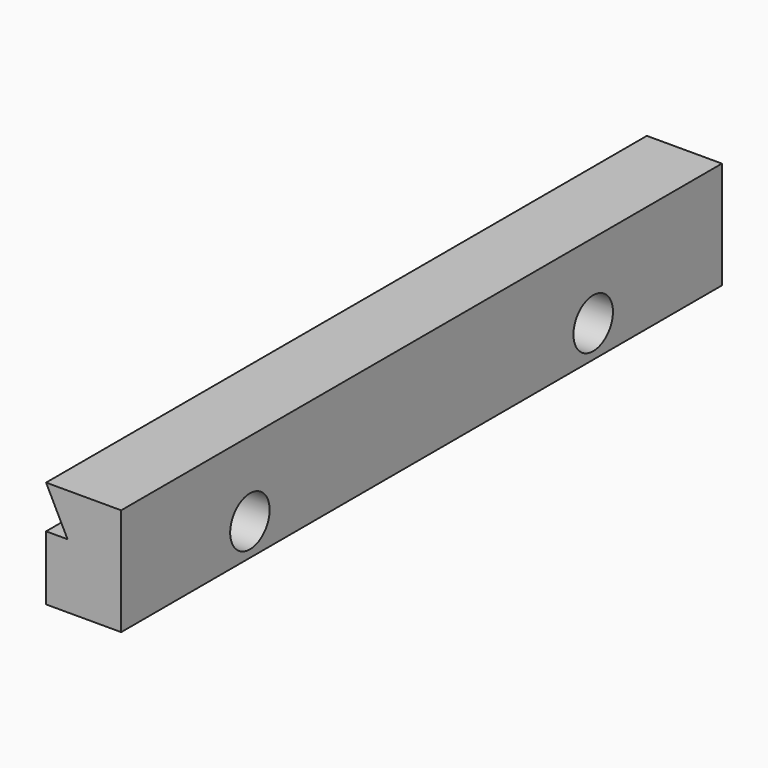
from build123d import *

# Parameters (mm, degrees)
F1_DEPTH = 10.033
F3_DEPTH = 76.2
F5_DEPTH = 76.2
F7_D     = 2.921
F7_DEPTH = 8.255
F9_DEPTH = 4.446


with BuildPart() as f1:
    # F0 (on Right) → F1 (new body, symmetric)
    with BuildSketch(Plane.YZ):
        Polygon((19.05, -6.35), (31.75, 6.35), (-19.05, 6.35), (-31.75, -6.35), align=None)
    extrude(amount=F1_DEPTH, both=True)

    # F2 (on Front) → F3 (cut, symmetric)
    with BuildSketch(Plane.XZ):
        Polygon((-6.858, -3.81), (-5.588, -6.35), (5.588, -6.35), (6.858, -3.81), align=None)
        Polygon((5.588, 6.35), (-5.588, 6.35), (-6.858, 3.81), (6.858, 3.81), align=None)
    extrude(amount=F3_DEPTH, both=True, mode=Mode.SUBTRACT)

    # F4 (on Front) → F5 (cut, symmetric)
    with BuildSketch(Plane.XZ):
        Polygon((16.257983, -9.573173), (10.033, 0), (5.588, 0), (5.588, 6.35), (-11.387688, 6.35), (-11.387688, -9.573173), align=None)
    extrude(amount=F5_DEPTH, both=True, mode=Mode.SUBTRACT)

    # F7
    with Locations(Plane(origin=(5.588, 0, 0), x_dir=(0, -1, 0), z_dir=(-1, 0, 0))):
        with Locations((-15.875, 1.905), (9.525, 1.905)):
            Hole(F7_D / 2, depth=F7_DEPTH)

    # F8 (on face) → F9 (cut, through all)
    with BuildSketch(Plane.YZ.offset(10.033)):
        Polygon((-19.05, 6.35), (-25.4, 0), (-19.05, 0), align=None)
        Polygon((25.4, 6.35), (25.4, 0), (31.75, 6.35), align=None)
    extrude(amount=-F9_DEPTH, mode=Mode.SUBTRACT)


solid = f1.part
